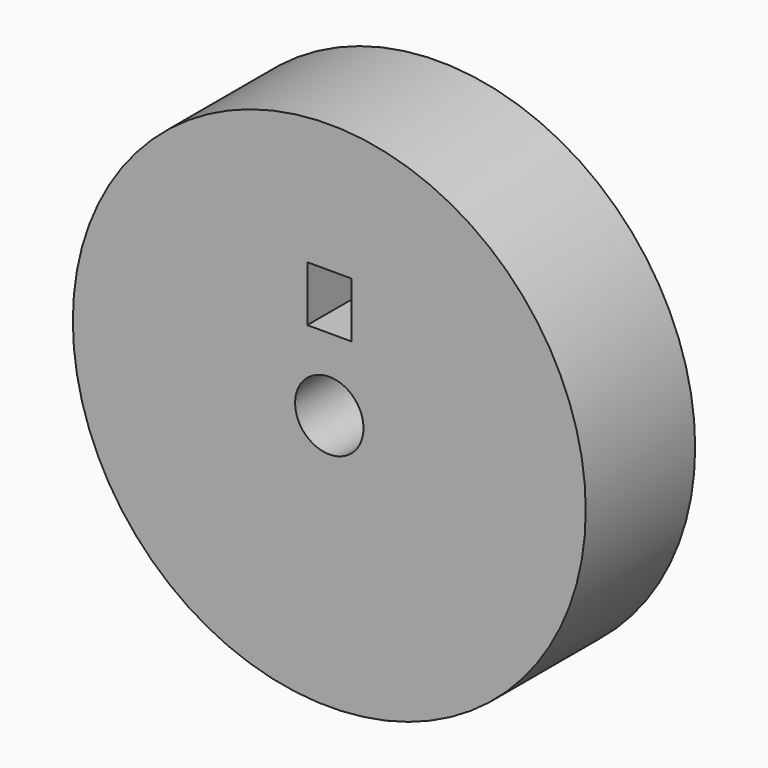
from build123d import *

# Parameters (mm, degrees)
F0_R     = 47.625
F0_R_2   = 6.35
F0_W     = 8.16737
F0_H     = 10.28484
F1_DEPTH = 25.4


with BuildPart() as f1:
    # F0 (on Front) → F1 (new body)
    with BuildSketch(Plane.XZ):
        Circle(F0_R)
        Circle(F0_R_2, mode=Mode.SUBTRACT)
        with Locations((0, 18.603459)):
            Rectangle(F0_W, F0_H, mode=Mode.SUBTRACT)
    extrude(amount=F1_DEPTH)


solid = f1.part
